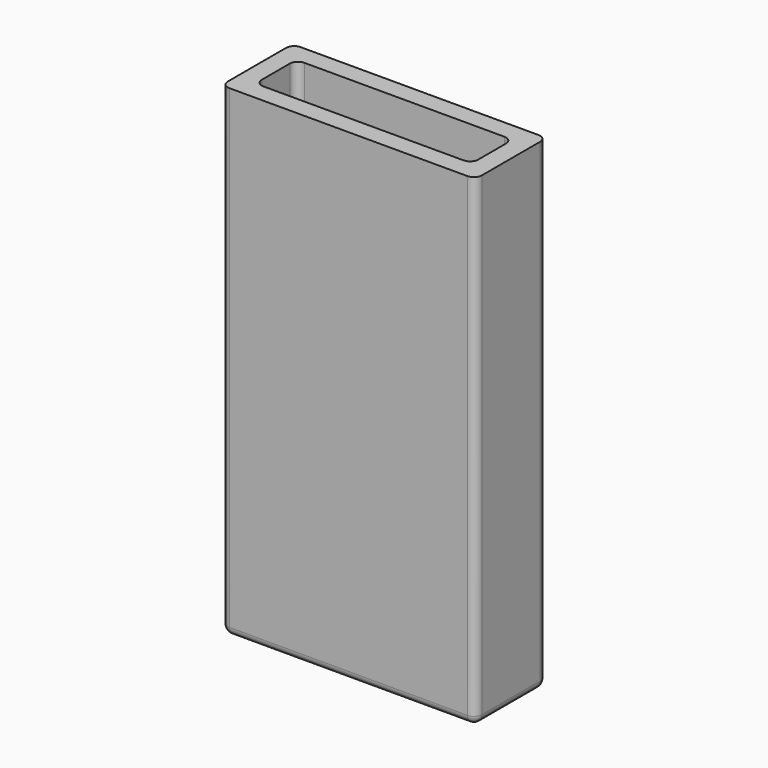
from build123d import *

# Parameters (mm, degrees)
F0_W     = 31.75
F0_H     = 11.1125
F1_DEPTH = 60.325
F2_W     = 27.0256
F2_H     = 6.3881
F3_DEPTH = 57.9628
F4_R     = 1.016


with BuildPart() as f1:
    # F0 (on Top) → F1 (new body)
    with BuildSketch(Plane.XY):
        Rectangle(F0_W, F0_H)
    extrude(amount=F1_DEPTH)

    # F2 (on face) → F3 (cut)
    with BuildSketch(Plane.XY.offset(60.325)):
        Rectangle(F2_W, F2_H)
    extrude(amount=-F3_DEPTH, mode=Mode.SUBTRACT)

    # F4
    f4_edges = [f1.edges().sort_by_distance(p)[0] for p in [
        (-15.875, -5.55625, 30.1625),
        (15.875, -5.55625, 30.1625),
        (15.875, 5.55625, 30.1625),
        (-15.875, 5.55625, 30.1625),
        (13.5128, 3.19405, 31.3436),
        (-13.5128, 3.19405, 31.3436),
        (-13.5128, -3.19405, 31.3436),
        (13.5128, -3.19405, 31.3436),
        (0, -5.55625, 0),
        (15.875, 0, 0),
        (0, 5.55625, 0),
        (-15.875, 0, 0),
    ]]
    fillet(f4_edges, radius=F4_R)


solid = f1.part
